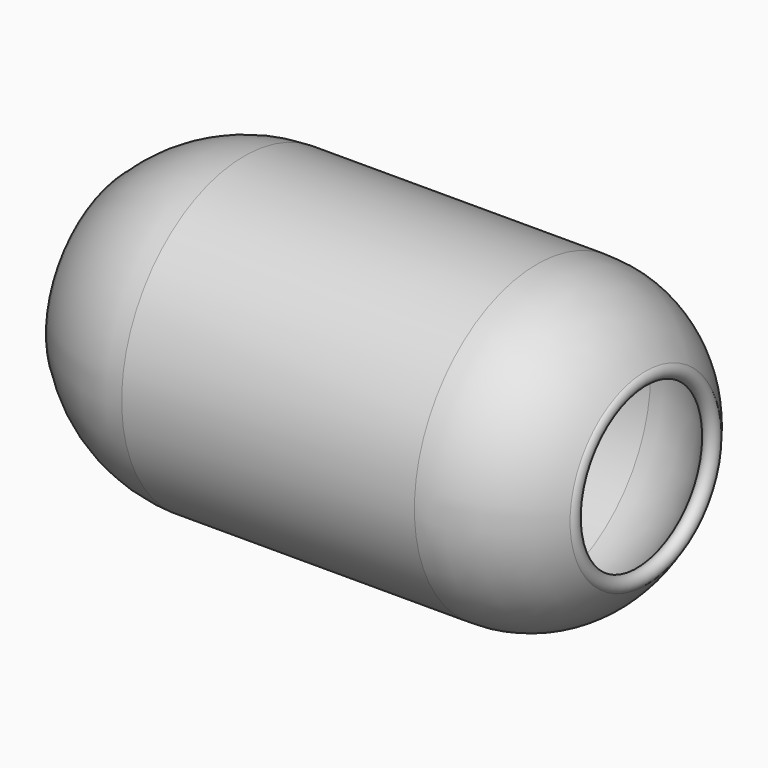
from build123d import *


with BuildPart() as f1:
    # F0 (on Top) → F1 (revolve)
    with BuildSketch(Plane.XY):
        with BuildLine():
            Line((41.137777, 50.200015), (-54.731134, 50.200015))
            ThreePointArc((-54.731134, 50.200015), (-75.039132, 45.75656), (-92.172474, 33.983383))
            ThreePointArc((-92.172474, 33.983383), (-93.102529, 30.550878), (-89.549199, 30.406184))
            ThreePointArc((-89.549199, 30.406184), (-74.10012, 42.262989), (-54.969613, 45.907374))
            Line((-54.969613, 45.907374), (41.614741, 45.907374))
            ThreePointArc((41.614741, 45.907374), (60.125644, 40.783482), (73.571041, 27.067466))
            ThreePointArc((73.571041, 27.067466), (77.260454, 27.237131), (76.67128, 30.883146))
            ThreePointArc((76.67128, 30.883146), (61.41641, 45.162202), (41.137777, 50.200015))
        make_face()
    revolve(axis=Axis((-2.980996, 0, 0), (1, 0, 0)))


solid = f1.part
